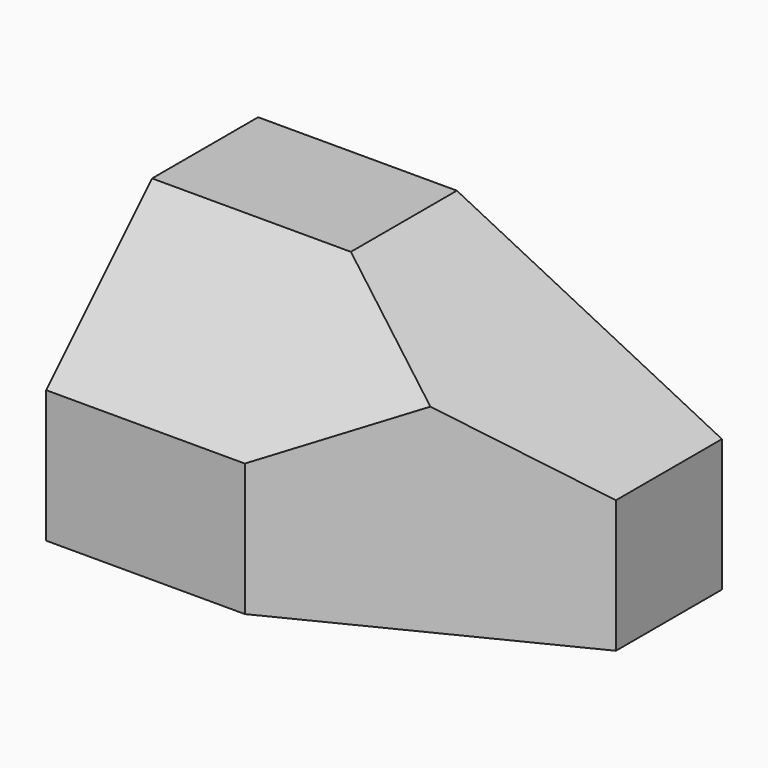
from build123d import *

# Parameters (mm, degrees)
F0_W      = 70
F0_H      = 40
F1_DEPTH  = 40
F3_DEPTH  = 70
F4_DEPTH  = 140
F6_DEPTH  = 40
F8_DEPTH  = 40
F9_DEPTH  = 80
F11_DEPTH = 10


with BuildPart() as f1:
    # F0 (on Front) → F1 (new body)
    with BuildSketch(Plane.XZ):
        with Locations((35, 20)):
            Rectangle(F0_W, F0_H)
    extrude(amount=F1_DEPTH)

    # F2 (on face) → F3 (join)
    with BuildSketch(Plane.YZ.offset(70)):
        Polygon((-20, 40), (-40, 40), (-40, 20), align=None)
    extrude(amount=F3_DEPTH)

    # F3_face (on face) → F4 (cut)
    with BuildSketch(Plane(origin=(140, -33.333333, 33.333333), x_dir=(0, 1, 0), z_dir=(1, 0, 0))):
        Polygon((13.333333, 6.666667), (-6.666667, 6.666667), (-6.666667, -13.333333), align=None)
    extrude(amount=-F4_DEPTH, mode=Mode.SUBTRACT)

    # F5 (on face) → F6 (cut)
    with BuildSketch(Plane(origin=(0, 0, 0), x_dir=(-1, 0, 0), z_dir=(0, 1, 0))):
        Polygon((-70, 40), (-70, 20), (-30, 40), align=None)
    extrude(amount=-F6_DEPTH, mode=Mode.SUBTRACT)

    # F7 (on face) → F8 (join)
    with BuildSketch(Plane(origin=(0, 0, 0), x_dir=(1, 0, 0), z_dir=(0, 0, -1))):
        Polygon((70, 20), (70, 40), (30, 40), align=None)
    extrude(amount=F8_DEPTH)

    # F8_face (on face) → F9 (cut)
    with BuildSketch(Plane(origin=(56.666667, -33.333333, -40), x_dir=(1, 0, 0), z_dir=(0, 0, -1))):
        Polygon((13.333333, -13.333333), (13.333333, 6.666667), (-26.666667, 6.666667), align=None)
    extrude(amount=-F9_DEPTH, mode=Mode.SUBTRACT)

    # F10 (on face) → F11 (join)
    with BuildSketch(Plane(origin=(0, -30, 30), x_dir=(1, 0, 0), z_dir=(0, -0.707107, 0.707107))):
        Polygon((50, 0), (30, 14.142136), (30, -14.142136), align=None)
    extrude(amount=-F11_DEPTH)


solid = f1.part
